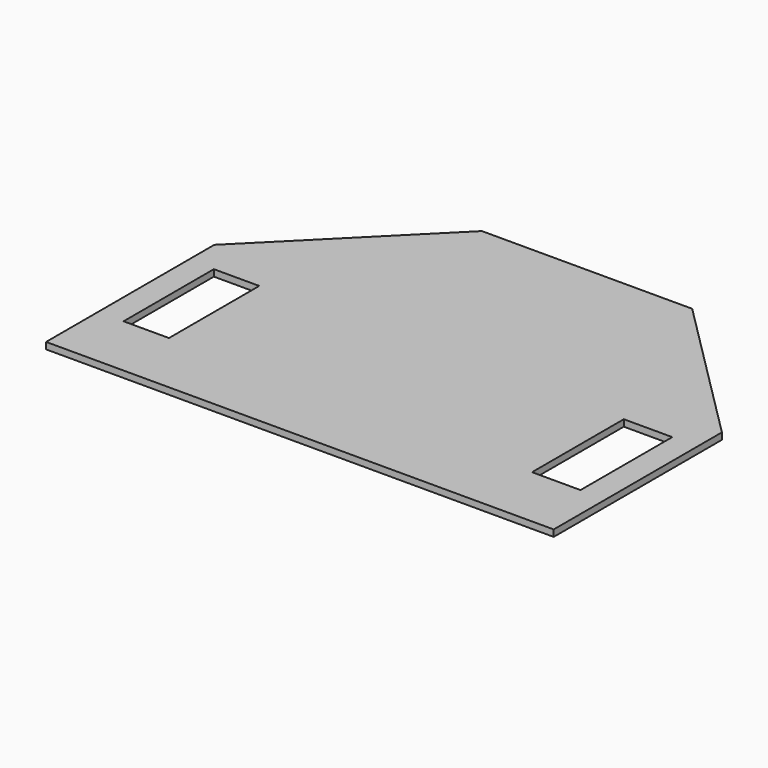
from build123d import *

# Parameters (mm, degrees)
F1_DEPTH = 9
F3_DEPTH = 9.001
F4_W     = 61.952739
F4_H     = 154.044632
F5_DEPTH = 9.001
F4_W_2   = 66.138744
F4_H_2   = 156.55623
F6_DEPTH = 9.001


with BuildPart() as f1:
    # F0 (on Top) → F1 (new body)
    with BuildSketch(Plane.XY):
        Polygon((143.506287, 346.454825), (-143.506287, 346.454825), (-346.454825, 143.506287), (-346.454825, -143.506287), (-143.506287, -346.454825), (143.506287, -346.454825), (346.454825, -143.506287), (346.454825, 143.506287), align=None)
    extrude(amount=F1_DEPTH)

    # F2 (on face) → F3 (cut, through all)
    with BuildSketch(Plane.XY.offset(9)):
        Polygon((346.454825, -143.506287), (-346.454825, -143.506287), (-143.506287, -346.454825), (143.506287, -346.454825), align=None)
    extrude(amount=-F3_DEPTH, mode=Mode.SUBTRACT)

    # F4 (on face) → F5 (cut, through all)
    with BuildSketch(Plane.XY.offset(9)):
        with Locations((-280.736581, 22.30238)):
            Rectangle(F4_W, F4_H)
    extrude(amount=-F5_DEPTH, mode=Mode.SUBTRACT)

    # F4 (on face) → F6 (cut, through all)
    with BuildSketch(Plane.XY.offset(9)):
        with Locations((278.931022, 23.558179)):
            Rectangle(F4_W_2, F4_H_2)
    extrude(amount=-F6_DEPTH, mode=Mode.SUBTRACT)


solid = f1.part
